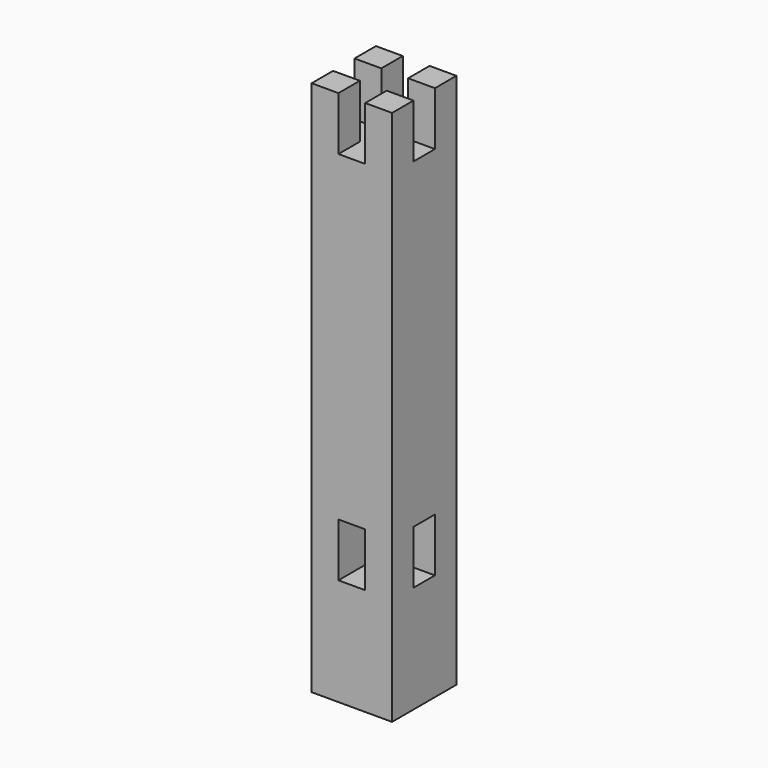
from build123d import *

# Parameters (mm, degrees)
F0_W     = 60
F0_H     = 60
F1_DEPTH = 400
F2_W     = 20
F2_H     = 20
F3_DEPTH = 40
F4_W     = 20
F4_H     = 40
F5_DEPTH = 40
F6_W     = 20
F6_H     = 40
F7_DEPTH = 40


with BuildPart() as f1:
    # F0 (on Top) → F1 (new body)
    with BuildSketch(Plane.XY):
        with Locations((-32.3275837302, -19.2534299031)):
            Rectangle(F0_W, F0_H)
    extrude(amount=-F1_DEPTH)

    # F2 (on face) → F3 (cut)
    with BuildSketch(Plane.XY):
        with Locations((-32.3275837302, -19.2534299031)):
            Rectangle(F2_W, F2_H)
        with Locations((-52.3275837302, -19.2534299031)):
            Rectangle(F2_W, F2_H)
        with Locations((-32.3275837302, 0.7465700969)):
            Rectangle(F2_W, F2_H)
        with Locations((-12.3275837302, -19.2534299031)):
            Rectangle(F2_W, F2_H)
        with Locations((-32.3275837302, -39.2534299031)):
            Rectangle(F2_W, F2_H)
    extrude(amount=-F3_DEPTH, mode=Mode.SUBTRACT)

    # F4 (on face) → F5 (cut)
    with BuildSketch(Plane.XZ.offset(49.2534299031)):
        with Locations((-32.3275837302, -300)):
            Rectangle(F4_W, F4_H)
    extrude(amount=-F5_DEPTH, mode=Mode.SUBTRACT)

    # F6 (on face) → F7 (cut)
    with BuildSketch(Plane.YZ.offset(-2.3275837302)):
        with Locations((-19.2534299031, -300)):
            Rectangle(F6_W, F6_H)
    extrude(amount=-F7_DEPTH, mode=Mode.SUBTRACT)


solid = f1.part
